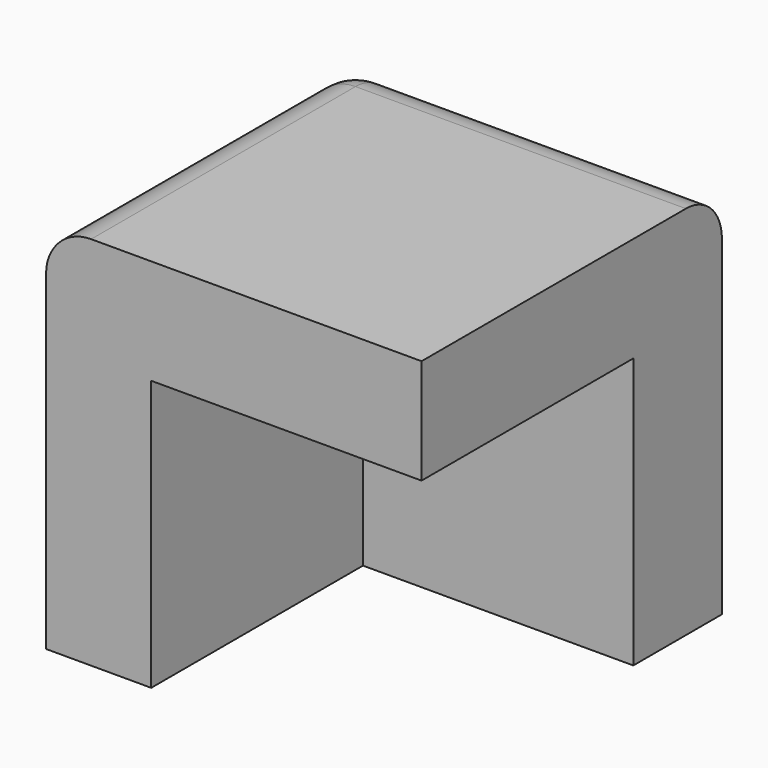
from build123d import *

# Parameters (mm, degrees)
F0_W     = 63.5
F0_H     = 63.5
F1_DEPTH = 63.5
F2_W     = 45.72
F2_H     = 45.72
F3_DEPTH = 44.76763
F4_R     = 7.62


with BuildPart() as f1:
    # F0 (on Front) → F1 (new body)
    with BuildSketch(Plane.XZ):
        Rectangle(F0_W, F0_H)
    extrude(amount=F1_DEPTH)

    # F2 (on face) → F3 (cut)
    with BuildSketch(Plane.XZ.offset(63.5)):
        with Locations((8.89, -8.89)):
            Rectangle(F2_W, F2_H)
    extrude(amount=-F3_DEPTH, mode=Mode.SUBTRACT)

    # F4
    f4_edges = [f1.edges().sort_by_distance(p)[0] for p in [
        (-31.75, 0, 0),
        (-31.75, -31.75, 31.75),
        (0, 0, 31.75),
    ]]
    fillet(f4_edges, radius=F4_R)


solid = f1.part
